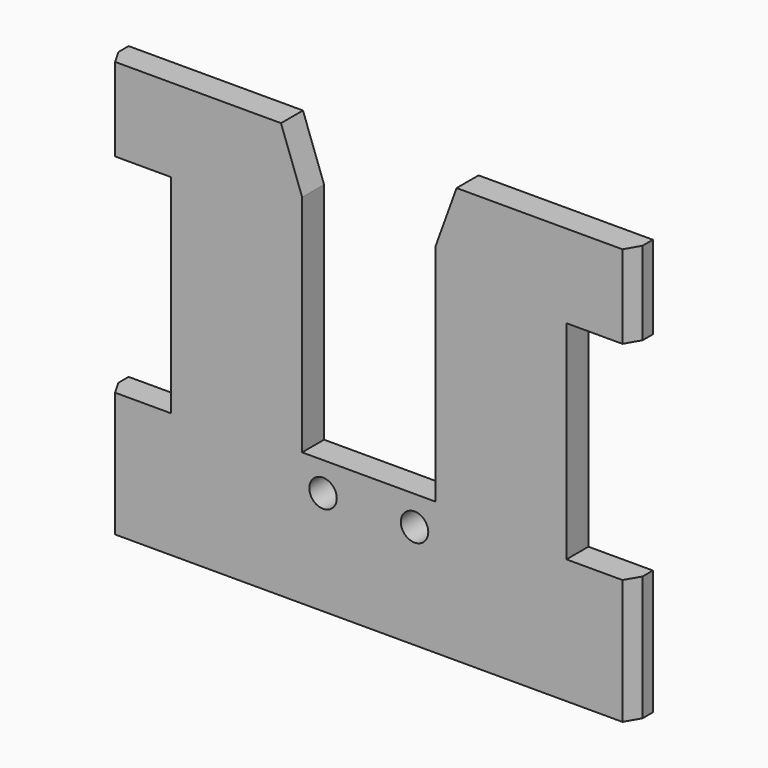
from build123d import *

# Parameters (mm, degrees)
F0_R     = 1.651
F1_DEPTH = 1.651
F2_SIZE2 = 1.7597636205
F2_SIZE  = 1.016


with BuildPart() as f1:
    # F0 (on Front) → F1 (new body, symmetric)
    with BuildSketch(Plane.XZ):
        Polygon((-31.5087, -7.5057), (31.5087, -7.5057), (31.5087, 7.5057), (23.7617, 7.5057), (23.7617, 32.4993), (31.5087, 32.4993), (31.5087, 42.5069), (23.7617, 42.5069), (10.5537, 42.5069), (8.0137, 35.4965), (8.0137, 8.4963), (0, 8.4963), (-8.0137, 8.4963), (-8.0137, 35.4965), (-10.5537, 42.5069), (-23.7617, 42.5069), (-31.5087, 42.5069), (-31.5087, 32.4993), (-23.7617, 32.4993), (-23.7617, 7.5057), (-31.5087, 7.5057), align=None)
        with Locations((-5.4991, 4.9910574029)):
            Circle(F0_R, mode=Mode.SUBTRACT)
        with Locations((5.4991, 4.9910574029)):
            Circle(F0_R, mode=Mode.SUBTRACT)
    extrude(amount=F1_DEPTH, both=True)

    # F2
    f2_edges = [f1.edges().sort_by_distance(p)[0] for p in [
        (31.5087, -1.651, 0),
        (31.5087, -1.651, 37.5031),
        (-31.5087, -1.651, 0),
        (-31.5087, -1.651, 37.5031),
    ]]
    f2_side = f1.faces().sort_by_distance((0, -1.651, -6.701184))[0]
    chamfer(f2_edges, length=F2_SIZE, length2=F2_SIZE2, reference=f2_side)


solid = f1.part
